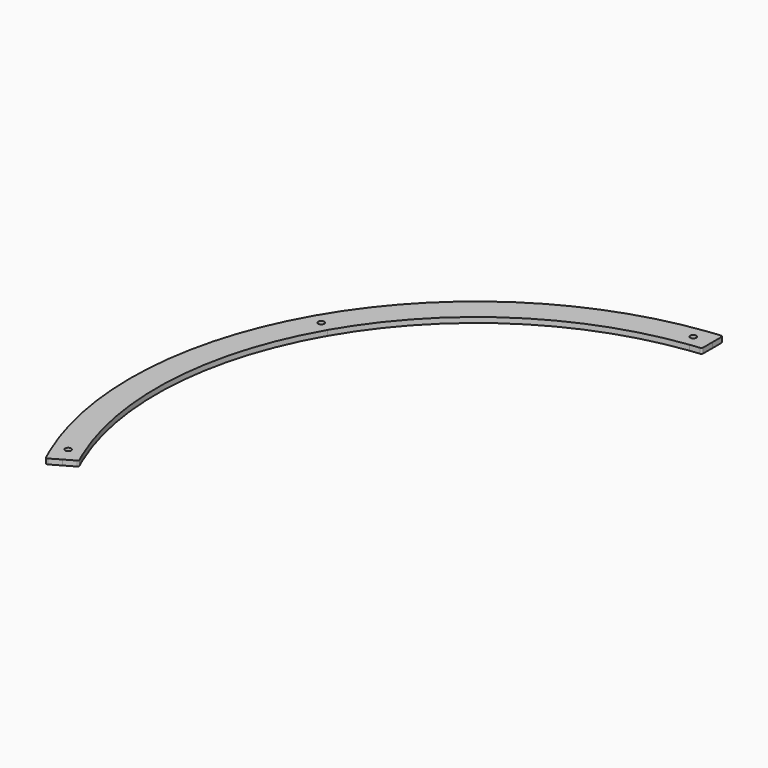
from build123d import *

# Parameters (mm, degrees)
PAD021_DEPTH                        = 3
SKETCH083_R                         = 1.7
POCKET041_DEPTH                     = 0.001
POCKET041_DEPTH_BACK                = 3.001
SKETCH084_R                         = 1.7
POCKET042_DEPTH                     = 0.001
POCKET042_DEPTH_BACK                = 3.001
BODY001003005003013_PLACEMENT_ANGLE = 60


with BuildPart() as part:
    # Sketch082 → Pad021 (new body)
    with BuildSketch(Plane.XY):
        with BuildLine():
            ThreePointArc((156.715765, 119.164267), (87.462654, 176.380945), (0, 196.875477))
            Line((0, 196.875477), (0, 181.875477))
            ThreePointArc((144.775545, 110.085106), (80.798849, 162.942429), (0, 181.875477))
            ThreePointArc((148.119912, 105.542318), (146.465342, 107.826679), (144.775545, 110.085106))
            ThreePointArc((148.119912, 105.542318), (148.721895, 105.145439), (149.434315, 105.256592))
            Line((155.166125, 108.565855), (149.434315, 105.256592))
            Line((155.166125, 108.565855), (160.740736, 111.784358))
            ThreePointArc((160.740736, 111.784358), (161.217235, 112.43486), (161.058811, 113.225496))
            ThreePointArc((161.058811, 113.225496), (158.915032, 116.215171), (156.715765, 119.164267))
        make_face()
    pad021 = extrude(amount=PAD021_DEPTH)

    # Mirrored029: Pad021 across Sketch082 V_Axis
    add(pad021.mirror(Plane(origin=(0, 0, 0), x_dir=(0, 0, 1), z_dir=(1, 0, 0))))

    # Sketch083 → Pocket041 (cut, two sides)
    with BuildSketch(Plane.XY) as pocket041_sk:
        with Locations((149.218956, 116.605208)):
            Circle(SKETCH083_R)
        with Locations((-149.218956, 116.605208)):
            Circle(SKETCH083_R)
    extrude(amount=-POCKET041_DEPTH, mode=Mode.SUBTRACT)
    extrude(pocket041_sk.sketch, amount=POCKET041_DEPTH_BACK, mode=Mode.SUBTRACT)

    # Sketch084 → Pocket042 (cut, two sides)
    with BuildSketch(Plane.XY) as pocket042_sk:
        with Locations((0, 189.375477)):
            Circle(SKETCH084_R)
    extrude(amount=-POCKET042_DEPTH, mode=Mode.SUBTRACT)
    extrude(pocket042_sk.sketch, amount=POCKET042_DEPTH_BACK, mode=Mode.SUBTRACT)


with BuildPart() as part_1:
    # Body001003005003013 placement: moved
    add(part.part.rotate(Axis((0, 0, 0), (0, 0, 1)), BODY001003005003013_PLACEMENT_ANGLE))


solid = part_1.part
